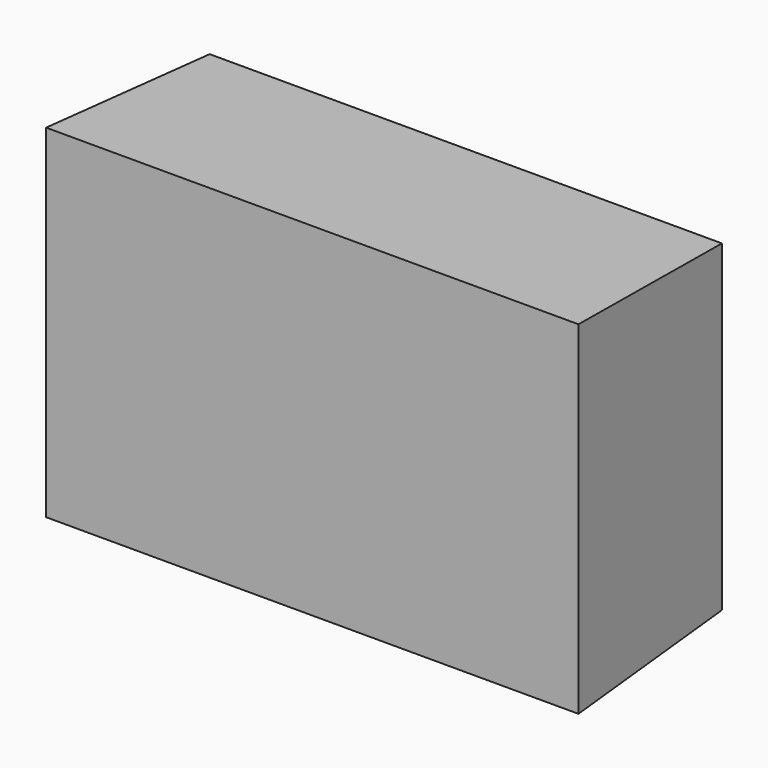
from build123d import *

# Parameters (mm, degrees)
F0_W     = 66.7333342135
F0_H     = 42.0567076653
F1_DEPTH = 25
F1_TAPER = -3


with BuildPart() as f1:
    # F0 (on Front) → F1 (new body)
    with BuildSketch(Plane.XZ):
        with Locations((10.3954207152, 3.7552276626)):
            Rectangle(F0_W, F0_H)
    extrude(amount=F1_DEPTH, taper=F1_TAPER)


solid = f1.part
